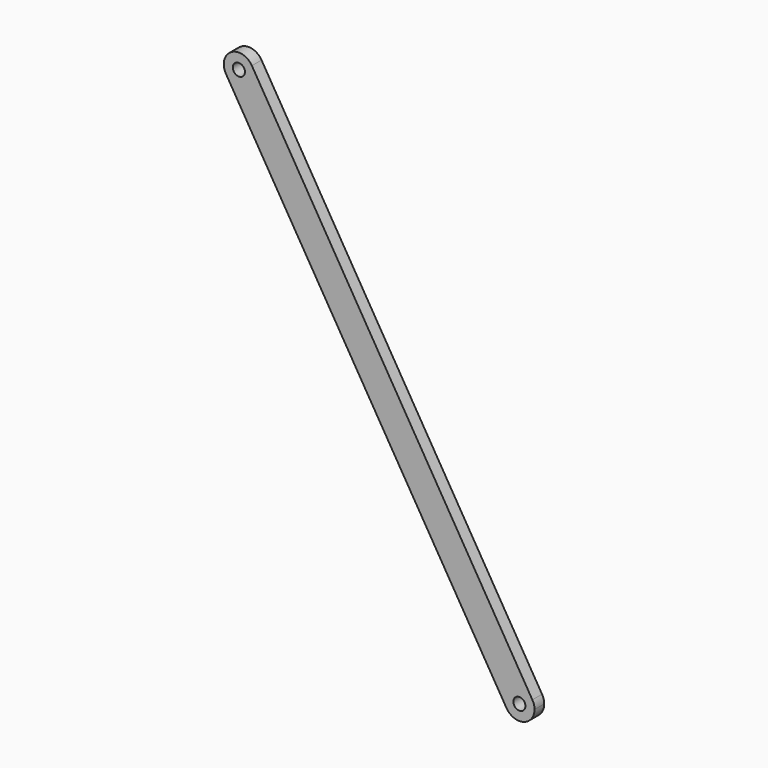
from build123d import *

# Parameters (mm, degrees)
F0_R     = 2.54
F1_DEPTH = 5.08


with BuildPart() as f1:
    # F0 (on Front) → F1 (new body)
    with BuildSketch(Plane.XZ):
        with BuildLine():
            ThreePointArc((-35.88384, 53.751791), (-28.743825, 50.902055), (-24.090217, 57.021266))
            ThreePointArc((-24.090217, 57.021266), (-24.321005, 58.717659), (-24.996594, 60.290742))
            ThreePointArc((-24.996594, 60.290742), (-33.709693, 62.464889), (-35.88384, 53.751791))
        make_face()
        with Locations((-30.440217, 57.021266)):
            Circle(F0_R, mode=Mode.SUBTRACT)
        with BuildLine():
            ThreePointArc((-24.996594, 60.290742), (-24.321005, 58.717659), (-24.090217, 57.021266))
            ThreePointArc((-24.090217, 57.021266), (-28.743825, 50.902055), (-35.88384, 53.751791))
            Line((-35.88384, 53.751791), (81.817277, -142.218633))
            ThreePointArc((81.817277, -142.218633), (83.991424, -133.505535), (92.704523, -135.679682))
            Line((92.704523, -135.679682), (-24.996594, 60.290742))
        make_face()
        with BuildLine():
            ThreePointArc((93.6109, -138.949158), (93.380112, -137.252765), (92.704523, -135.679682))
            ThreePointArc((92.704523, -135.679682), (83.991424, -133.505535), (81.817277, -142.218633))
            ThreePointArc((81.817277, -142.218633), (88.957292, -145.068369), (93.6109, -138.949158))
        make_face()
        with Locations((87.2609, -138.949158)):
            Circle(F0_R, mode=Mode.SUBTRACT)
    extrude(amount=F1_DEPTH)


solid = f1.part
